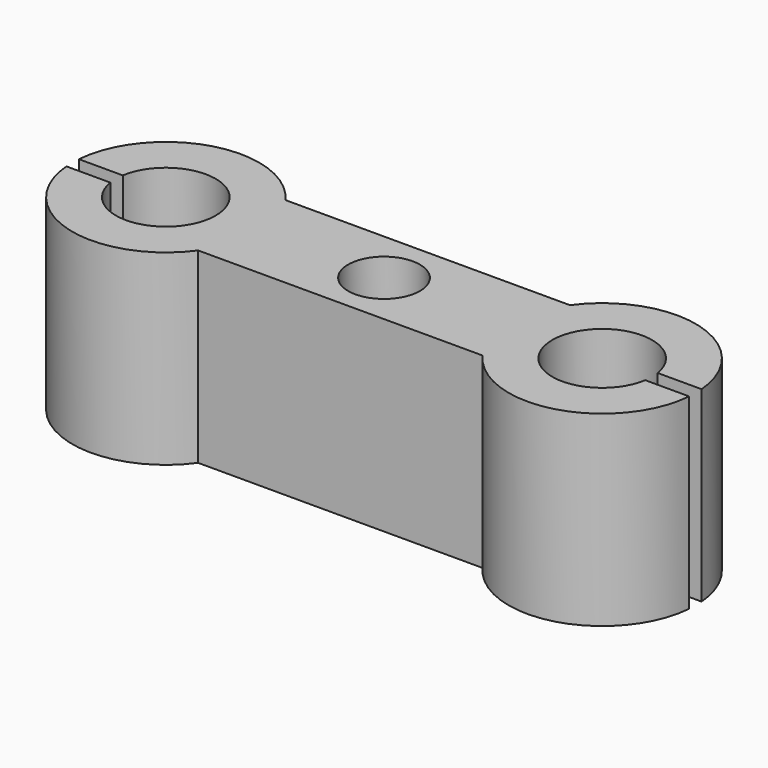
from build123d import *

# Parameters (mm, degrees)
F0_R     = 1.25
F1_DEPTH = 12
F2_R     = 2.3
F3_DEPTH = 2.5


with BuildPart() as f1:
    # F0 (on Top) → F1 (new body)
    with BuildSketch(Plane.XY):
        with BuildLine():
            Line((9.126603, 3.5), (-9.126603, 3.5))
            ThreePointArc((-9.126603, 3.5), (-15.598644, 5.783108), (-19.97913, 0.5))
            Line((-19.97913, 0.5), (-17.160696, 0.5))
            ThreePointArc((-17.160696, 0.5), (-10.8, 0), (-17.160696, -0.5))
            Line((-17.160696, -0.5), (-19.97913, -0.5))
            ThreePointArc((-19.97913, -0.5), (-15.598644, -5.783108), (-9.126603, -3.5))
            Line((-9.126603, -3.5), (9.126603, -3.5))
            ThreePointArc((9.126603, -3.5), (15.598644, -5.783108), (19.97913, -0.5))
            Line((19.97913, -0.5), (17.160696, -0.5))
            ThreePointArc((17.160696, -0.5), (10.8, 0), (17.160696, 0.5))
            Line((17.160696, 0.5), (19.97913, 0.5))
            ThreePointArc((19.97913, 0.5), (15.598644, 5.783108), (9.126603, 3.5))
        make_face()
        Circle(F0_R, mode=Mode.SUBTRACT)
    extrude(amount=F1_DEPTH)

    # F2 (on face) → F3 (cut)
    with BuildSketch(Plane.XY.offset(12)):
        Circle(F2_R)
    extrude(amount=-F3_DEPTH, mode=Mode.SUBTRACT)


solid = f1.part
